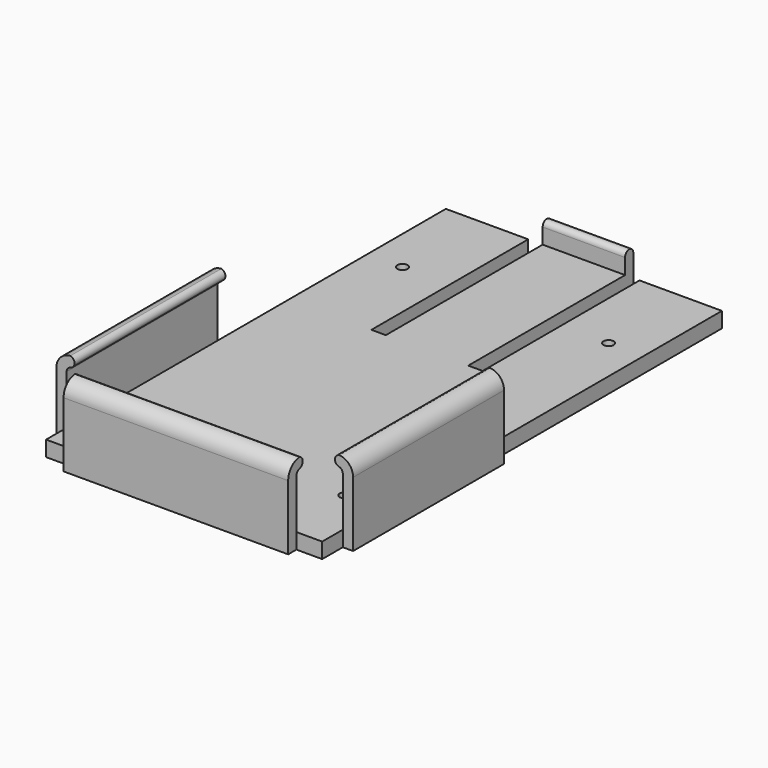
from build123d import *

# Parameters (mm, degrees)
F0_R     = 1.5875
F1_DEPTH = 4.7625
F3_DEPTH = 58.1406
F5_DEPTH = 69.215
F7_DEPTH = 25.4


with BuildPart() as f1:
    # F0 (on Top) → F1 (new body)
    with BuildSketch(Plane.XY):
        Polygon((-17.145, 87.89836), (-42.545, 87.89836), (-42.545, 0), (-45.72, 0), (-45.72, -58.15164), (-42.545, -58.15164), (-42.545, -66.08914), (-34.6075, -66.08914), (-34.6075, -69.26414), (34.6075, -69.26414), (34.6075, -66.08914), (42.545, -66.08914), (42.545, -58.15164), (45.72, -58.15164), (45.72, 0), (42.545, 0), (42.545, 87.89836), (17.145, 87.89836), (17.145, 27.487862), (12.7, 27.487862), (12.7, 91.07336), (-12.7, 91.07336), (-12.7, 27.487862), (-17.145, 27.487862), align=None)
        with Locations((-31.75, -43.86414)):
            Circle(F0_R, mode=Mode.SUBTRACT)
        with Locations((31.75, -43.86414)):
            Circle(F0_R, mode=Mode.SUBTRACT)
        with Locations((-31.75, 57.73586)):
            Circle(F0_R, mode=Mode.SUBTRACT)
        with Locations((31.75, 57.73586)):
            Circle(F0_R, mode=Mode.SUBTRACT)
    extrude(amount=F1_DEPTH)

    # F2 (on face) → F3 (join)
    with BuildSketch(Plane.XZ.offset(58.15164)):
        with BuildLine():
            Line((-45.72, 20.0025), (-45.72, 4.7625))
            Line((-45.72, 4.7625), (-42.545, 4.7625))
            Line((-42.545, 4.7625), (-42.545, 20.0025))
            ThreePointArc((-42.545, 20.0025), (-42.225108, 20.927946), (-41.402, 21.458299))
            ThreePointArc((-41.402, 21.458299), (-40.126284, 23.045799), (-41.402, 24.633299))
            ThreePointArc((-41.402, 24.633299), (-44.485221, 23.179692), (-45.72, 20.0025))
        make_face()
        with BuildLine():
            Line((42.545, 20.0025), (42.545, 4.7625))
            Line((42.545, 4.7625), (45.72, 4.7625))
            Line((45.72, 4.7625), (45.72, 20.0025))
            ThreePointArc((45.72, 20.0025), (44.485221, 23.179692), (41.402, 24.633299))
            ThreePointArc((41.402, 24.633299), (40.126284, 23.045799), (41.402, 21.458299))
            ThreePointArc((41.402, 21.458299), (42.225108, 20.927946), (42.545, 20.0025))
        make_face()
    extrude(amount=-F3_DEPTH)

    # F4 (on face) → F5 (join)
    with BuildSketch(Plane.YZ.offset(34.6075)):
        with BuildLine():
            Line((-69.26414, 20.0025), (-69.26414, 4.7625))
            Line((-69.26414, 4.7625), (-66.08914, 4.7625))
            Line((-66.08914, 4.7625), (-66.08914, 20.0025))
            ThreePointArc((-66.08914, 20.0025), (-65.769247, 20.927946), (-64.94614, 21.458299))
            ThreePointArc((-64.94614, 21.458299), (-63.670424, 23.045799), (-64.94614, 24.633299))
            ThreePointArc((-64.94614, 24.633299), (-68.029361, 23.179692), (-69.26414, 20.0025))
        make_face()
    extrude(amount=-F5_DEPTH)

    # F6 (on face) → F7 (join)
    with BuildSketch(Plane.YZ.offset(12.7)):
        with BuildLine():
            Line((87.89836, 4.7625), (91.07336, 4.7625))
            Line((91.07336, 4.7625), (91.07336, 9.5377))
            ThreePointArc((91.07336, 9.5377), (89.48586, 11.1252), (87.89836, 9.5377))
            Line((87.89836, 9.5377), (87.89836, 4.7625))
        make_face()
    extrude(amount=-F7_DEPTH)


solid = f1.part
